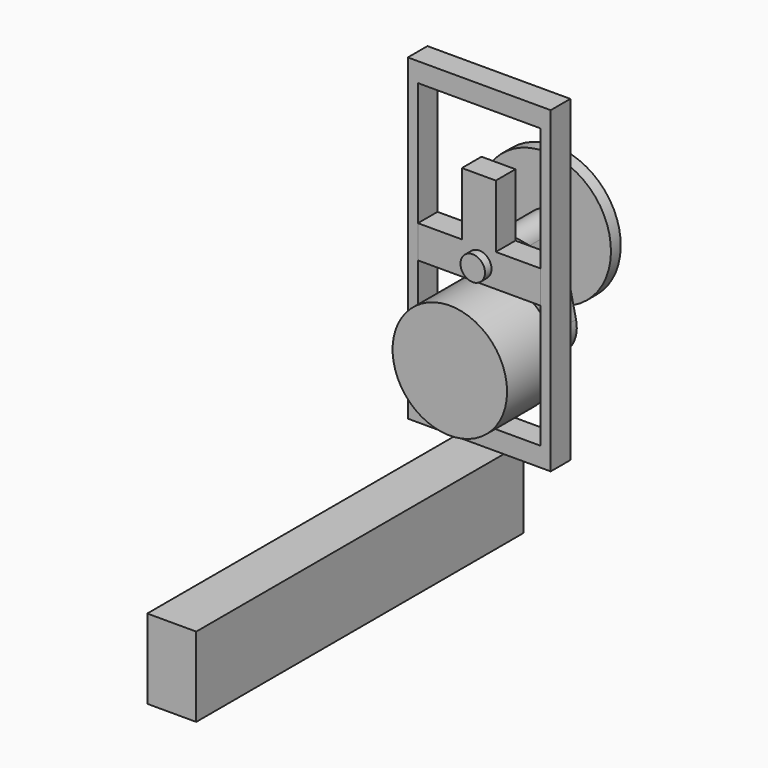
from build123d import *

# Parameters (mm, degrees)
F0_R      = 7
F2_DEPTH  = 7.5
F0_R_2    = 0.5
F0_R_3    = 0.95
F0_R_4    = 1.5
F3_DEPTH  = 1
F4_DEPTH  = 7
F6_DEPTH  = 1.5
F7_DEPTH  = 4
F9_DEPTH  = 3
F10_DEPTH = 3
F8_W      = 5.988852
F8_H      = 9.722866
F11_DEPTH = 50


with BuildPart() as f2:
    # F0 (on Front) → F2 (new body)
    with BuildSketch(Plane.XZ):
        with Locations((0, -9.6)):
            Circle(F0_R)
    extrude(amount=F2_DEPTH)



with BuildPart() as f3:
    # F0 (on Front) → F3 (new body)
    with BuildSketch(Plane.XZ):
        with BuildLine():
            ThreePointArc((-5.17, 0.985444), (-6, 0), (-5.17, -0.985444))
            Line((-5.17, -0.985444), (-0.3145, -1.823072))
            ThreePointArc((-0.3145, -1.823072), (0, -1.85), (0.3145, -1.823072))
            Line((0.3145, -1.823072), (5.17, -0.985444))
            ThreePointArc((5.17, -0.985444), (6, 0), (5.17, 0.985444))
            Line((5.17, 0.985444), (0.3145, 1.823072))
            ThreePointArc((0.3145, 1.823072), (0, 1.85), (-0.3145, 1.823072))
            Line((-0.3145, 1.823072), (-5.17, 0.985444))
        make_face()
        with Locations((-5, 0)):
            Circle(F0_R_2, mode=Mode.SUBTRACT)
        with Locations((-2.95, 0)):
            Circle(F0_R_3, mode=Mode.SUBTRACT)
        Circle(F0_R_4, mode=Mode.SUBTRACT)
        with Locations((2.95, 0)):
            Circle(F0_R_3, mode=Mode.SUBTRACT)
        with Locations((5, 0)):
            Circle(F0_R_2, mode=Mode.SUBTRACT)
        Circle(F0_R_4)
    extrude(amount=-F3_DEPTH)


with BuildPart() as f2_1:
    add(f2.part)

    add(f3.part)  # F4 merges F3
    # F1 (on Front) → F4 (join)
    with BuildSketch(Plane.XZ):
        with BuildLine():
            ThreePointArc((1.806268, 0.39987), (0, 1.85), (-1.806268, 0.39987))
            Line((-1.806268, 0.39987), (-3.832217, -8.751628))
            ThreePointArc((-3.832217, -8.751628), (0, -13.525), (3.832217, -8.751628))
            Line((3.832217, -8.751628), (1.806268, 0.39987))
        make_face()
    extrude(amount=-F4_DEPTH)

    # F5 (on face) → F6 (join)
    with BuildSketch(Plane(origin=(0, 7, 0), x_dir=(-1, 0, 0), z_dir=(0, 1, 0))):
        with BuildLine():
            Line((-1.806268, 0.39987), (-3.510774, -7.299621))
            ThreePointArc((-3.510774, -7.299621), (-1.800426, -7.897371), (0, -8.1))
            ThreePointArc((0, -8.1), (1.800426, -7.897371), (3.510774, -7.299621))
            Line((3.510774, -7.299621), (1.806268, 0.39987))
            ThreePointArc((1.806268, 0.39987), (0, 1.85), (-1.806268, 0.39987))
        make_face()
        with BuildLine():
            ThreePointArc((3.510774, -7.299621), (6.857378, -4.311191), (8.1, 0))
            ThreePointArc((8.1, 0), (-4.311191, 6.857378), (-3.510774, -7.299621))
            Line((-3.510774, -7.299621), (-1.806268, 0.39987))
            ThreePointArc((-1.806268, 0.39987), (0, 1.85), (1.806268, 0.39987))
            Line((1.806268, 0.39987), (3.510774, -7.299621))
        make_face()
    extrude(amount=F6_DEPTH)

    # F0 (on Front) → F7 (join)
    with BuildSketch(Plane.XZ):
        Circle(F0_R_4)
    extrude(amount=F7_DEPTH)


with BuildPart() as f9:
    # F8 (on Front) → F9 (new body)
    with BuildSketch(Plane.XZ):
        Polygon((8.733529, -19.442188), (8.733529, 19.442188), (-8.733529, 19.442188), (-8.733529, -19.442188), (-2.994426, -19.442188), (2.994426, -19.442188), align=None)
        Polygon((7.500878, 2.001245), (7.500878, -2.001245), (7.500878, -17.080791), (-7.500878, -17.080791), (-7.500878, -2.001245), (-7.500878, 2.001245), (-7.500878, 17.080791), (7.500878, 17.080791), align=None, mode=Mode.SUBTRACT)
    extrude(amount=F9_DEPTH)


with BuildPart() as f10:
    # F8 (on Front) → F10 (new body)
    with BuildSketch(Plane.XZ):
        Polygon((-7.500878, -2.001245), (7.500878, -2.001245), (7.500878, 2.001245), (2.022431, 2.001245), (2.022431, 9.684889), (-2.127044, 9.684889), (-2.127044, 2.001245), (-7.500878, 2.001245), align=None)
    extrude(amount=F10_DEPTH)


with BuildPart() as f11:
    # F8 (on Front) → F11 (new body)
    with BuildSketch(Plane.XZ):
        with Locations((0, -24.303621)):
            Rectangle(F8_W, F8_H)
    extrude(amount=F11_DEPTH)


solid = Compound([f2_1.part, f9.part, f10.part, f11.part])
